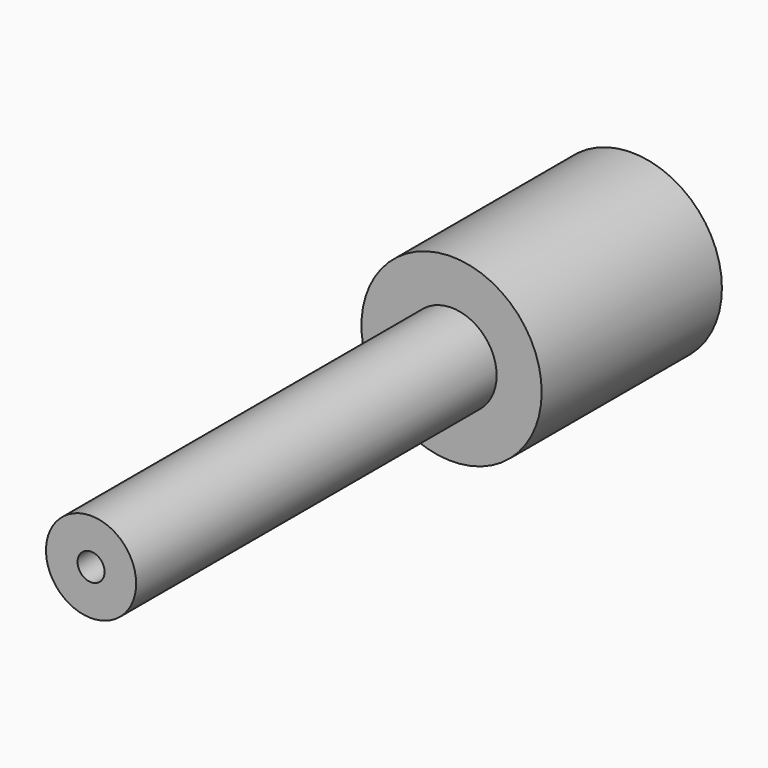
from build123d import *

# Parameters (mm, degrees)
F0_R     = 10
F0_R_2   = 5
F1_DEPTH = 25
F2_R     = 5
F3_DEPTH = 50
F4_R     = 1.5
F5_DEPTH = 12


with BuildPart() as f1:
    # F0 (on Front) → F1 (new body)
    with BuildSketch(Plane.XZ):
        Circle(F0_R)
        Circle(F0_R_2, mode=Mode.SUBTRACT)
    extrude(amount=F1_DEPTH)


with BuildPart() as f3:
    # F2 (on face) → F3 (new body)
    with BuildSketch(Plane.XZ.offset(25)):
        Circle(F2_R)
    extrude(amount=F3_DEPTH)

    # F4 (on face) → F5 (cut)
    with BuildSketch(Plane.XZ.offset(75)):
        Circle(F4_R)
    extrude(amount=-F5_DEPTH, mode=Mode.SUBTRACT)


solid = Compound([f1.part, f3.part])
